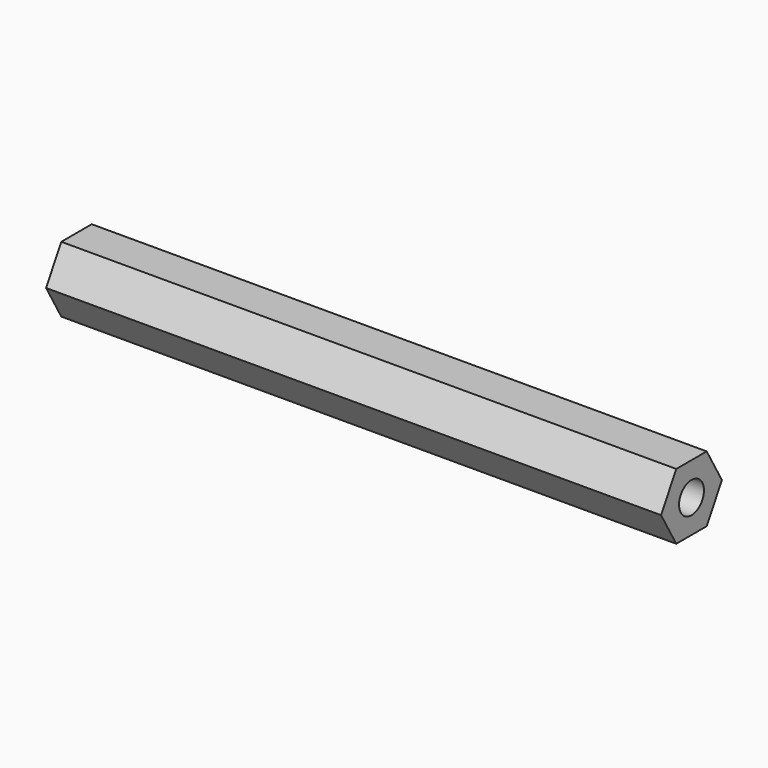
from build123d import *

# Parameters (mm, degrees)
F1_DEPTH = 88.9
F3_D     = 4.4958


with BuildPart() as f1:
    # F0 (on Right) → F1 (new body)
    with BuildSketch(Plane.YZ):
        Polygon((5.499261, 0), (2.749631, 4.7625), (-2.749631, 4.7625), (-5.499261, 0), (-2.749631, -4.7625), (2.749631, -4.7625), align=None)
    extrude(amount=-F1_DEPTH)

    # F3 (through all)
    with Locations(Plane.YZ):
        with Locations((0, 0)):
            Hole(F3_D / 2)


solid = f1.part
